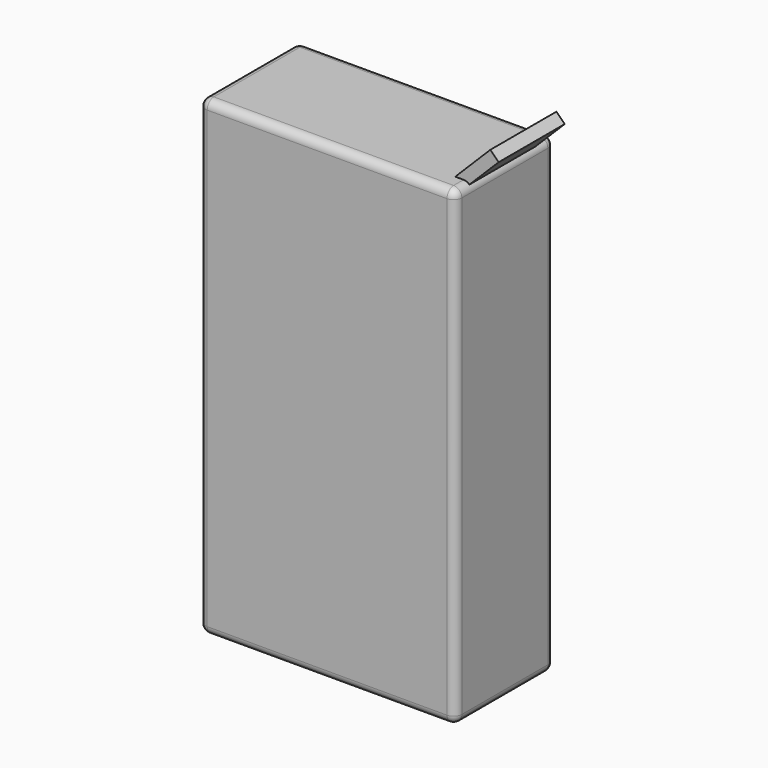
from build123d import *

# Parameters (mm, degrees)
F1_DEPTH = 7.5
F2_R     = 1
F4_DEPTH = 5


with BuildPart() as f1:
    # F0 (on Front) → F1 (new body, symmetric)
    with BuildSketch(Plane.XZ):
        with BuildLine():
            Line((30, 0), (1, 0))
            ThreePointArc((1, 0), (0.2928932188, -0.2928932188), (0, -1))
            Line((0, -1), (0, -56))
            ThreePointArc((0, -56), (0.2928932188, -56.7071067812), (1, -57))
            Line((1, -57), (30, -57))
            ThreePointArc((30, -57), (30.7071067812, -56.7071067812), (31, -56))
            Line((31, -56), (31, -1))
            ThreePointArc((31, -1), (30.7071067812, -0.2928932188), (30, 0))
        make_face()
    extrude(amount=F1_DEPTH, both=True)

    # F2
    f2_edges = [f1.edges().sort_by_distance(p)[0] for p in [
        (15.5, -7.5, 0),
        (0.292893, -7.5, -0.292893),
        (0, -7.5, -28.5),
        (0.292893, -7.5, -56.707107),
        (15.5, -7.5, -57),
        (30.707107, -7.5, -56.707107),
        (31, -7.5, -28.5),
        (30.707107, -7.5, -0.292893),
        (15.5, 7.5, 0),
        (0.292893, 7.5, -0.292893),
        (0, 7.5, -28.5),
        (0.292893, 7.5, -56.707107),
        (15.5, 7.5, -57),
        (30.707107, 7.5, -56.707107),
        (31, 7.5, -28.5),
        (30.707107, 7.5, -0.292893),
    ]]
    fillet(f2_edges, radius=F2_R)

    # F3 (on Front) → F4 (join, symmetric)
    with BuildSketch(Plane.XZ):
        Polygon((29, 0), (30, -1), (34.2426406871, 3.2426406871), (33.2426406871, 4.2426406871), align=None)
    extrude(amount=F4_DEPTH, both=True)


solid = f1.part
